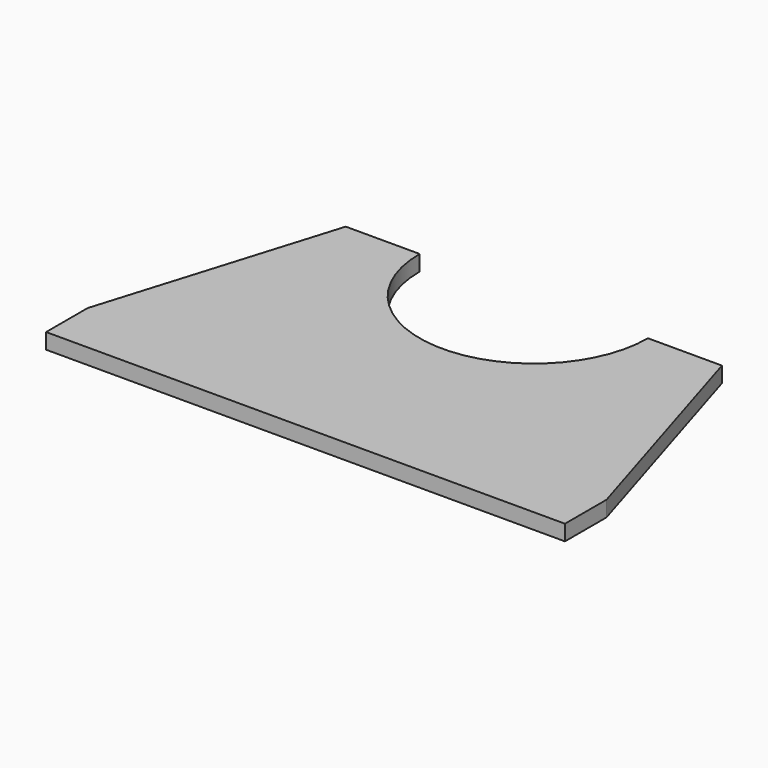
from build123d import *

# Parameters (mm, degrees)
F1_DEPTH = 12


with BuildPart() as f1:
    # F0 (on Top) → F1 (new body)
    with BuildSketch(Plane.XY):
        with BuildLine():
            Line((0, 40), (0, 0))
            Line((0, 0), (400, 0))
            Line((400, 0), (400, 40))
            Line((400, 40), (345, 220))
            Line((345, 220), (288, 220))
            ThreePointArc((288, 220), (200, 132), (112, 220))
            Line((112, 220), (55, 220))
            Line((55, 220), (0, 40))
        make_face()
    extrude(amount=F1_DEPTH)


solid = f1.part
